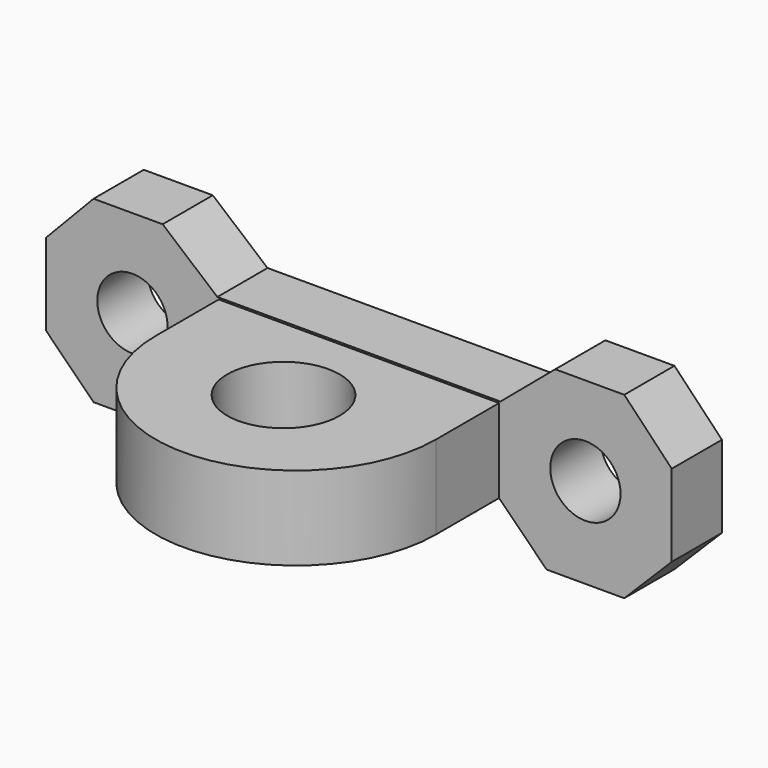
from build123d import *

# Parameters (mm, degrees)
F0_R     = 2.133606
F1_DEPTH = 3.81
F0_W     = 2.888897
F0_H     = 2.097062
F0_W_2   = 3.533358
F2_DEPTH = 0.635
F3_R     = 3.411002
F4_DEPTH = 5.08


with BuildPart() as f1:
    # F0 (on Front) → F1 (new body)
    with BuildSketch(Plane.XZ):
        Polygon((-41.903517, 31.796391), (-50.499284, 31.796391), (-53.825128, 34.60286), (-58.019256, 34.60286), (-60.902717, 31.58833), (-60.902717, 26.607805), (-58.019256, 23.724342), (-53.30086, 23.724342), (-50.4174, 26.607805), (-41.903517, 26.607805), (-41.903517, 27.656337), (-45.436875, 27.656337), (-45.436875, 29.753399), (-41.903517, 29.753399), align=None)
        with Locations((-55.660058, 29.229134)):
            Circle(F0_R, mode=Mode.SUBTRACT)
        Polygon((-33.307749, 31.796391), (-41.903517, 31.796391), (-41.903517, 29.753399), (-39.01462, 29.753399), (-39.01462, 27.656337), (-41.903517, 27.656337), (-41.903517, 26.607805), (-33.389634, 26.607805), (-30.506173, 23.724342), (-25.787777, 23.724342), (-22.904317, 26.607805), (-22.904317, 31.58833), (-25.787777, 34.60286), (-29.981906, 34.60286), align=None)
        with Locations((-28.146975, 29.229134)):
            Circle(F0_R, mode=Mode.SUBTRACT)
    extrude(amount=F1_DEPTH)


with BuildPart() as f2:
    # F0 (on Front) → F2 (new body, symmetric)
    with BuildSketch(Plane.XZ):
        with Locations((-40.459069, 28.704868)):
            Rectangle(F0_W, F0_H)
        with Locations((-43.670196, 28.704868)):
            Rectangle(F0_W_2, F0_H)
    extrude(amount=F2_DEPTH, both=True)


with BuildPart() as f4:
    # F3 (on face) → F4 (new body)
    with BuildSketch(Plane(origin=(0, 0, 26.607805), x_dir=(1, 0, 0), z_dir=(0, 0, -1))):
        with BuildLine():
            Line((-50.4174, 8.599777), (-50.4174, 3.81))
            Line((-50.4174, 3.81), (-46.59472, 3.81))
            Line((-46.59472, 3.81), (-36.627345, 3.81))
            Line((-36.627345, 3.81), (-33.389634, 3.81))
            Line((-33.389634, 3.81), (-33.389634, 8.599777))
            ThreePointArc((-33.389634, 8.599777), (-41.903517, 17.11366), (-50.4174, 8.599777))
        make_face()
        with Locations((-41.890103, 9.552663)):
            Circle(F3_R, mode=Mode.SUBTRACT)
    extrude(amount=-F4_DEPTH)


solid = Compound([f1.part, f2.part, f4.part])
